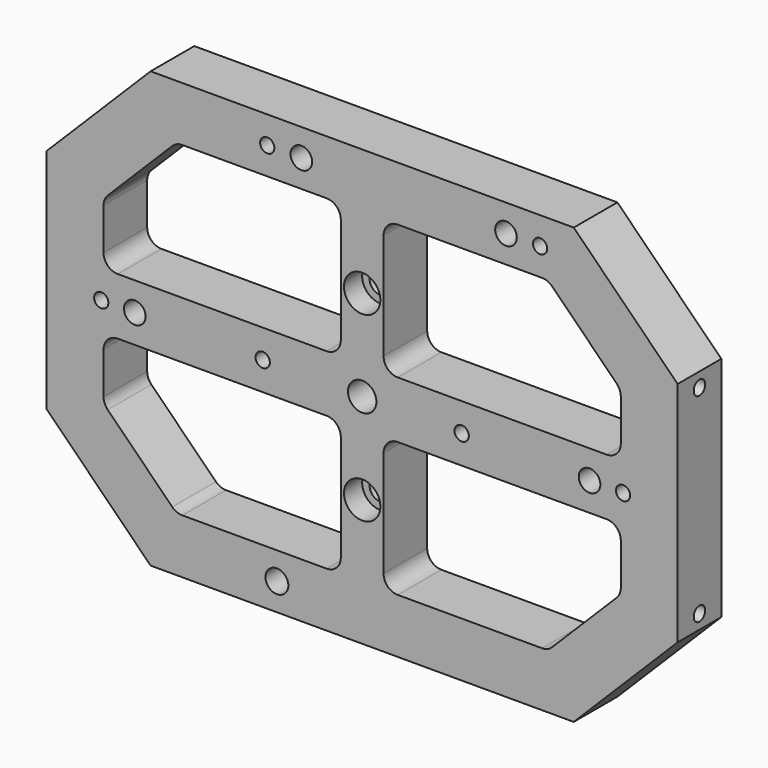
from build123d import *

# Parameters (mm, degrees)
F0_R      = 2.5527
F0_R_2    = 1.5875
F0_R_3    = 2.413
F0_R_4    = 3.175
F1_DEPTH  = 12.192
F2_R      = 3.9624
F3_DEPTH  = 4.572
F4_R      = 1.6002
F5_DEPTH  = 10.16
F6_R      = 1.6002
F7_DEPTH  = 10.16
F8_R      = 2.413
F8_R_2    = 1.6002
F9_DEPTH  = 12.193
F10_R     = 4.064
F11_DEPTH = 5.08


with BuildPart() as f1:
    # F0 (on Front) → F1 (new body)
    with BuildSketch(Plane.XZ):
        Polygon((47.2694, 48.6156), (0, 48.6156), (-47.2694, 48.6156), (-70.485, 25.4), (-70.485, 0), (-70.485, -25.4), (-47.2694, -48.6156), (0, -48.6156), (47.2694, -48.6156), (70.485, -25.4), (70.485, 0), (70.485, 25.4), align=None)
        with Locations((-19.05, -42.5196)):
            Circle(F0_R, mode=Mode.SUBTRACT)
        with BuildLine():
            Line((-7.9502, -36.4236), (-40.18576, -36.4236))
            ThreePointArc((-40.18576, -36.4236), (-41.40078, -36.181918), (-42.430824, -35.493664))
            Line((-42.430824, -35.493664), (-56.855064, -21.069424))
            ThreePointArc((-56.855064, -21.069424), (-57.543318, -20.03938), (-57.785, -18.82436))
            Line((-57.785, -18.82436), (-57.785, -9.525))
            ThreePointArc((-57.785, -9.525), (-56.855064, -7.279936), (-54.61, -6.35))
            Line((-54.61, -6.35), (-7.9502, -6.35))
            ThreePointArc((-7.9502, -6.35), (-5.705136, -7.279936), (-4.7752, -9.525))
            Line((-4.7752, -9.525), (-4.7752, -33.2486))
            ThreePointArc((-4.7752, -33.2486), (-5.705136, -35.493664), (-7.9502, -36.4236))
        make_face(mode=Mode.SUBTRACT)
        with BuildLine():
            ThreePointArc((57.785, -18.82436), (57.543318, -20.03938), (56.855064, -21.069424))
            Line((56.855064, -21.069424), (42.430824, -35.493664))
            ThreePointArc((42.430824, -35.493664), (41.40078, -36.181918), (40.18576, -36.4236))
            Line((40.18576, -36.4236), (7.9502, -36.4236))
            ThreePointArc((7.9502, -36.4236), (5.705136, -35.493664), (4.7752, -33.2486))
            Line((4.7752, -33.2486), (4.7752, -9.525))
            ThreePointArc((4.7752, -9.525), (5.705136, -7.279936), (7.9502, -6.35))
            Line((7.9502, -6.35), (54.61, -6.35))
            ThreePointArc((54.61, -6.35), (56.855064, -7.279936), (57.785, -9.525))
            Line((57.785, -9.525), (57.785, -18.82436))
        make_face(mode=Mode.SUBTRACT)
        with Locations((-58.293, 0)):
            Circle(F0_R_2, mode=Mode.SUBTRACT)
        with Locations((-50.8, 0)):
            Circle(F0_R_3, mode=Mode.SUBTRACT)
        with BuildLine():
            Line((-40.18576, 36.4236), (-7.9502, 36.4236))
            ThreePointArc((-7.9502, 36.4236), (-5.705136, 35.493664), (-4.7752, 33.2486))
            Line((-4.7752, 33.2486), (-4.7752, 9.525))
            ThreePointArc((-4.7752, 9.525), (-5.705136, 7.279936), (-7.9502, 6.35))
            Line((-7.9502, 6.35), (-54.61, 6.35))
            ThreePointArc((-54.61, 6.35), (-56.855064, 7.279936), (-57.785, 9.525))
            Line((-57.785, 9.525), (-57.785, 18.82436))
            ThreePointArc((-57.785, 18.82436), (-57.543318, 20.03938), (-56.855064, 21.069424))
            Line((-56.855064, 21.069424), (-42.430824, 35.493664))
            ThreePointArc((-42.430824, 35.493664), (-41.40078, 36.181918), (-40.18576, 36.4236))
        make_face(mode=Mode.SUBTRACT)
        with Locations((-21.209, 42.5196)):
            Circle(F0_R_2, mode=Mode.SUBTRACT)
        with Locations((-13.589, 42.5196)):
            Circle(F0_R_3, mode=Mode.SUBTRACT)
        Circle(F0_R_4, mode=Mode.SUBTRACT)
        with BuildLine():
            ThreePointArc((57.785, 9.525), (56.855064, 7.279936), (54.61, 6.35))
            Line((54.61, 6.35), (7.9502, 6.35))
            ThreePointArc((7.9502, 6.35), (5.705136, 7.279936), (4.7752, 9.525))
            Line((4.7752, 9.525), (4.7752, 33.2486))
            ThreePointArc((4.7752, 33.2486), (5.705136, 35.493664), (7.9502, 36.4236))
            Line((7.9502, 36.4236), (40.18576, 36.4236))
            ThreePointArc((40.18576, 36.4236), (41.40078, 36.181918), (42.430824, 35.493664))
            Line((42.430824, 35.493664), (56.855064, 21.069424))
            ThreePointArc((56.855064, 21.069424), (57.543318, 20.03938), (57.785, 18.82436))
            Line((57.785, 18.82436), (57.785, 9.525))
        make_face(mode=Mode.SUBTRACT)
        with Locations((50.8, 0)):
            Circle(F0_R_3, mode=Mode.SUBTRACT)
        with Locations((58.293, 0)):
            Circle(F0_R_2, mode=Mode.SUBTRACT)
        with Locations((32.131, 42.5196)):
            Circle(F0_R_3, mode=Mode.SUBTRACT)
        with Locations((39.751, 42.5196)):
            Circle(F0_R_2, mode=Mode.SUBTRACT)
    extrude(amount=F1_DEPTH)

    # F2 (on face) → F3 (cut)
    with BuildSketch(Plane(origin=(0, 0, 0), x_dir=(-1, 0, 0), z_dir=(0, 1, 0))):
        with Locations((50.8, 0)):
            Circle(F2_R)
        with Locations((13.589, 42.5196)):
            Circle(F2_R)
        with Locations((-32.131, 42.5196)):
            Circle(F2_R)
        with Locations((-50.8, 0)):
            Circle(F2_R)
    extrude(amount=-F3_DEPTH, mode=Mode.SUBTRACT)

    # F4 (on face) → F5 (cut)
    with BuildSketch(Plane.YZ.offset(70.485)):
        with Locations((-6.096, 22.225)):
            Circle(F4_R)
        with Locations((-6.096, -22.225)):
            Circle(F4_R)
    extrude(amount=-F5_DEPTH, mode=Mode.SUBTRACT)

    # F6 (on face) → F7 (cut)
    with BuildSketch(Plane(origin=(-70.485, 0, 0), x_dir=(0, -1, 0), z_dir=(-1, 0, 0))):
        with Locations((6.096, 22.225)):
            Circle(F6_R)
        with Locations((6.096, -22.225)):
            Circle(F6_R)
    extrude(amount=-F7_DEPTH, mode=Mode.SUBTRACT)

    # F8 (on face) → F9 (cut, through all)
    with BuildSketch(Plane(origin=(0, 0, 0), x_dir=(-1, 0, 0), z_dir=(0, 1, 0))):
        with Locations((0, -20.32)):
            Circle(F8_R)
        with Locations((0, 20.32)):
            Circle(F8_R)
        with Locations((22.225, 0)):
            Circle(F8_R_2)
        with Locations((-22.225, 0)):
            Circle(F8_R_2)
    extrude(amount=-F9_DEPTH, mode=Mode.SUBTRACT)

    # F10 (on face) → F11 (cut)
    with BuildSketch(Plane.XZ.offset(12.192)):
        with Locations((0, -20.32)):
            Circle(F10_R)
        with Locations((0, 20.32)):
            Circle(F10_R)
    extrude(amount=-F11_DEPTH, mode=Mode.SUBTRACT)


solid = f1.part
